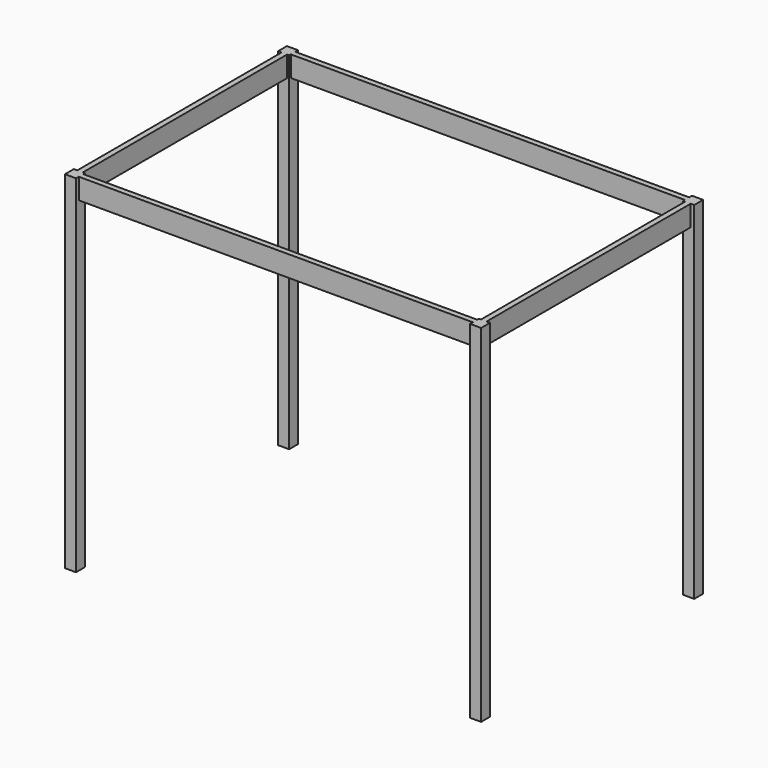
from build123d import *

# Parameters (mm, degrees)
F0_W     = 2950
F0_H     = 1950
F0_W_2   = 2870
F0_H_2   = 1870
F2_DEPTH = 150
F1_W     = 80
F1_H     = 80
F3_DEPTH = 2500


with BuildPart() as f2:
    # F0 (on Top) → F2 (new body)
    with BuildSketch(Plane.XY):
        Rectangle(F0_W, F0_H)
        Rectangle(F0_W_2, F0_H_2, mode=Mode.SUBTRACT)
    extrude(amount=-F2_DEPTH)

    # F1 (on Top) → F3 (join)
    with BuildSketch(Plane.XY):
        with Locations((1460, 960)):
            Rectangle(F1_W, F1_H)
        with Locations((1460, -960)):
            Rectangle(F1_W, F1_H)
        with Locations((-1460, -960)):
            Rectangle(F1_W, F1_H)
        with Locations((-1460, 960)):
            Rectangle(F1_W, F1_H)
    extrude(amount=-F3_DEPTH)


solid = f2.part
